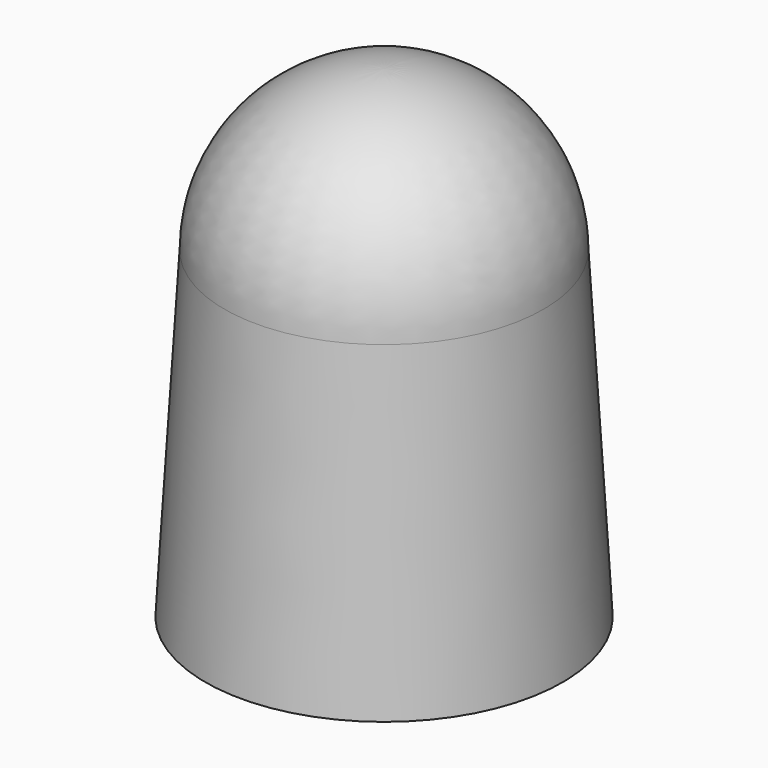
from build123d import *


with BuildPart() as f1:
    # F0 (on Right) → F1 (revolve)
    with BuildSketch(Plane.YZ):
        with BuildLine():
            Line((12.949569, 0), (15.494, 0))
            Line((15.494, 0), (13.843, 27.94))
            ThreePointArc((13.843, 27.94), (9.788479, 37.728479), (0, 41.783))
            Line((0, 41.783), (0, 39.226267))
            ThreePointArc((0, 39.226267), (7.888793, 36.011355), (11.283314, 28.198164))
            Line((11.283314, 28.198164), (12.949569, 0))
        make_face()
    revolve(axis=Axis((0, 0, 20.8915), (0, 0, 1)))


solid = f1.part
